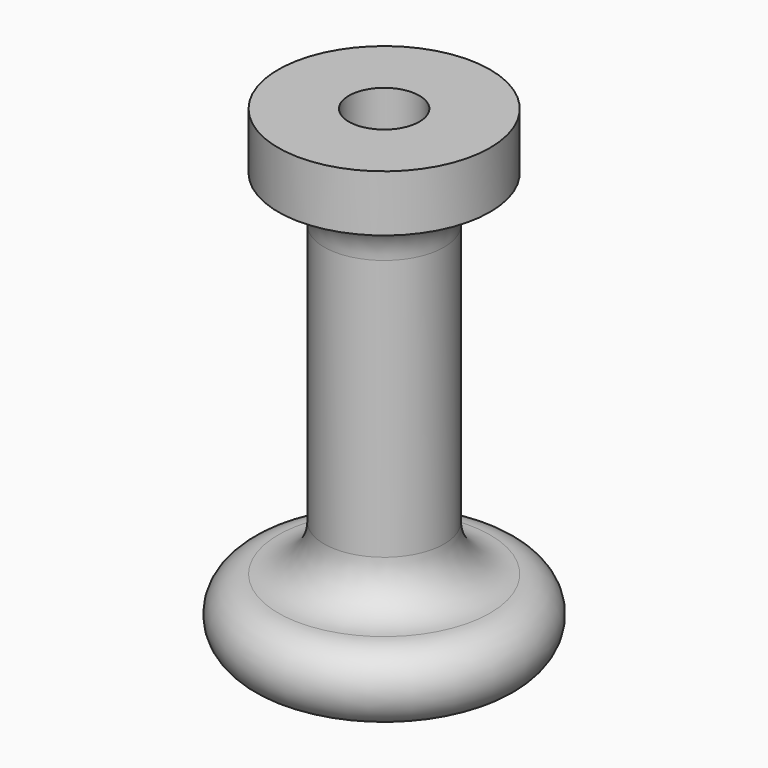
from build123d import *


with BuildPart() as f1:
    # F0 (on Front) → F1 (revolve)
    with BuildSketch(Plane.XZ):
        with BuildLine():
            Line((5, 68), (5, 48))
            Line((5, 48), (0, 48))
            Line((0, 48), (0, 2.5))
            Line((0, 2.5), (15, 2.5))
            Line((15, 2.5), (15, 0))
            ThreePointArc((15, 0), (20, 5), (15, 10))
            ThreePointArc((15, 10), (10.403806, 11.903806), (8.5, 16.5))
            Line((8.5, 16.5), (8.5, 53.5))
            ThreePointArc((8.5, 53.5), (10.403806, 58.096194), (15, 60))
            Line((15, 60), (15, 68))
            Line((15, 68), (5, 68))
        make_face()
    revolve(axis=Axis((0, 0, 25.25), (0, 0, -1)))


solid = f1.part
